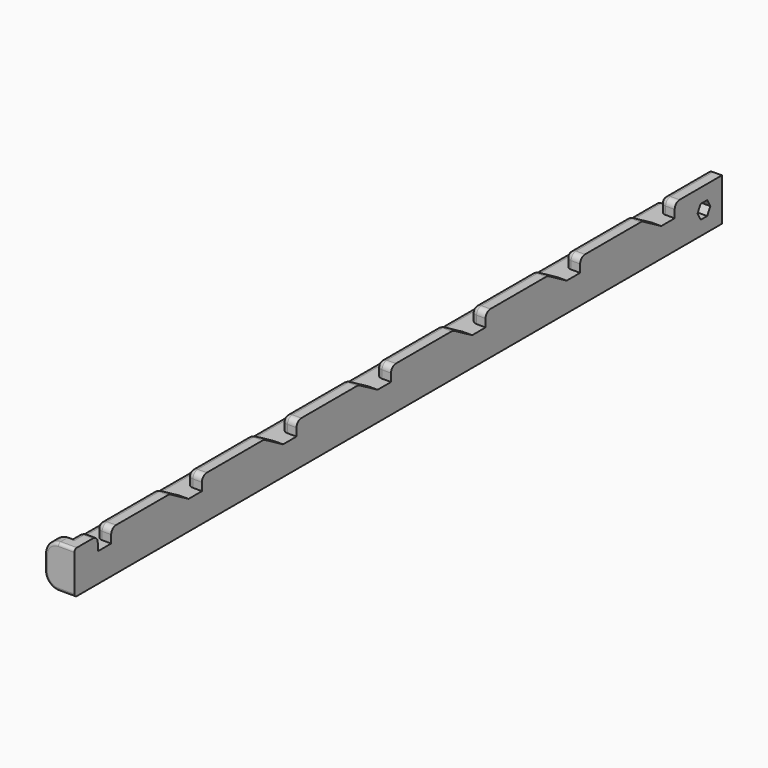
from build123d import *

# Parameters (mm, degrees)
SKETCH005_W          = 5
SKETCH005_H          = 14.2336
PAD003_DEPTH         = 270
PAD004_DEPTH         = 2.5
PAD005_DEPTH         = 4.7
POCKET004_DEPTH      = 2.501
POCKET004_DEPTH_BACK = 7.501
POCKET005_DEPTH      = 2.501
POCKET005_DEPTH_BACK = 7.501
LINEARPATTERN_COUNT  = 6
LINEARPATTERN_PITCH  = 39.428571
SKETCH015_W          = 5.6
SKETCH015_H          = 4.6168
POCKET006_DEPTH      = 2.501
POCKET006_DEPTH_BACK = 7.501
FILLET016_R          = 2
FILLET017_R          = 1


with BuildPart() as lefttelescopingbar:
    # Sketch005 → Pad003 (new body)
    with BuildSketch(Plane.XZ.offset(-40)):
        Rectangle(SKETCH005_W, SKETCH005_H)
    extrude(amount=PAD003_DEPTH)

    # Sketch006 → Pad004 (join, symmetric)
    with BuildSketch(Plane.XY):
        Polygon((2.5, -230), (7.5, -230), (7.5, 0), (7.5, 24.8), (2.5, 24.8), align=None)
    extrude(amount=PAD004_DEPTH, both=True)

    # Sketch007 (on Face5 of Pad004) → Pad005 (join)
    with BuildSketch(Plane.XZ.offset(230)):
        with BuildLine():
            Line((7.5, 2.5), (7.5, -2.5))
            ThreePointArc((2.883221, -7.1168), (6.147778, -5.764563), (7.5, -2.5))
            Line((2.5, -7.1168), (2.883221, -7.1168))
            Line((-2.5, -7.1168), (2.5, -7.1168))
            Line((-2.5, -7.1168), (-2.5, 7.1168))
            Line((-2.5, 7.1168), (2.5, 7.1168))
            Line((2.5, 7.1168), (2.8832, 7.1168))
            ThreePointArc((7.5, 2.5), (6.147771, 5.764571), (2.8832, 7.1168))
        make_face()
    extrude(amount=-PAD005_DEPTH)

    # Sketch012 → Pocket004 (cut, two sides)
    with BuildSketch(Plane.YZ) as pocket004_sk:
        Polygon((35.2, 0), (33.85, 2.338269), (31.15, 2.338269), (29.8, 0), (31.15, -2.338269), (33.85, -2.338269), align=None)
    extrude(amount=-POCKET004_DEPTH, mode=Mode.SUBTRACT)
    extrude(pocket004_sk.sketch, amount=POCKET004_DEPTH_BACK, mode=Mode.SUBTRACT)

    # Sketch013 → Pocket005 (cut, two sides)
    with BuildSketch(Plane.YZ) as pocket005_sk:
        Polygon((6.703468, 7.1168), (20.3, 7.1168), (20.3, 2.5), (14.7, 2.5), align=None)
    pocket005 = extrude(amount=-POCKET005_DEPTH, mode=Mode.SUBTRACT) + extrude(pocket005_sk.sketch, amount=POCKET005_DEPTH_BACK, mode=Mode.SUBTRACT)

    # LinearPattern: Pocket005 ×6
    with Locations(*[(0, -i * LINEARPATTERN_PITCH, 0) for i in range(1, LINEARPATTERN_COUNT)]):
        add(pocket005, mode=Mode.SUBTRACT)

    # Sketch015 → Pocket006 (cut, two sides)
    with BuildSketch(Plane.YZ) as pocket006_sk:
        with Locations((-217.5, 4.8084)):
            Rectangle(SKETCH015_W, SKETCH015_H)
    extrude(amount=-POCKET006_DEPTH, mode=Mode.SUBTRACT)
    extrude(pocket006_sk.sketch, amount=POCKET006_DEPTH_BACK, mode=Mode.SUBTRACT)

    # Fillet016
    fillet016_edges = [lefttelescopingbar.edges().sort_by_distance(p)[0] for p in [
        (2.5, -222.8, 7.1168),
        (0, -220.3, 7.1168),
        (0, -214.7, 7.1168),
        (2.5, -202.569695, 7.1168),
        (0, -190.439389, 7.1168),
        (2.5, -186.441123, 4.8084),
        (0, -176.842857, 7.1168),
        (2.5, -163.926838, 7.1168),
        (0, -151.010818, 7.1168),
        (2.5, -220.3, 4.8084),
        (2.5, -214.7, 4.8084),
        (2.5, -176.842857, 4.8084),
        (2.5, -147.012552, 4.8084),
        (2.5, -137.414286, 4.8084),
        (0, -137.414286, 7.1168),
        (2.5, -124.498266, 7.1168),
        (0, -111.582246, 7.1168),
        (2.5, -107.58398, 4.8084),
        (2.5, -97.985714, 4.8084),
        (0, -97.985714, 7.1168),
        (2.5, -85.069695, 7.1168),
        (2.5, -68.155409, 4.8084),
        (0, -72.153675, 7.1168),
        (2.5, -58.557143, 4.8084),
        (0, -58.557143, 7.1168),
        (2.5, -45.641123, 7.1168),
        (2.5, -28.726838, 4.8084),
        (0, -32.725104, 7.1168),
        (0, -19.128571, 7.1168),
        (2.5, -19.128571, 4.8084),
        (2.5, -6.212552, 7.1168),
        (2.5, 10.701734, 4.8084),
        (0, 6.703468, 7.1168),
        (0, 20.3, 7.1168),
        (2.5, 20.3, 4.8084),
        (2.5, 30.15, 7.1168),
        (2.5, -92.65, -7.1168),
        (7.5, -100.25, -2.5),
        (7.5, -100.25, 2.5),
    ]]
    fillet(fillet016_edges, radius=FILLET016_R)

    # Fillet017
    fillet017_edges = [lefttelescopingbar.edges().sort_by_distance(p)[0] for p in [
        (6.147771, -225.3, 5.764571),
        (6.147778, -225.3, -5.764563),
        (7.5, -230, 0),
    ]]
    fillet(fillet017_edges, radius=FILLET017_R)


with BuildPart() as lefttelescopingbar_1:
    # Body001 placement: moved
    add(lefttelescopingbar.part.moved(Location((28.4159, -10, 78.239))))


with BuildPart() as righttelescopingbar:
    # Part__Mirroring: instance of LeftTelescopingBar
    add(lefttelescopingbar_1.part.mirror(Plane(origin=(0, 0, 0), x_dir=(0, -1, 0), z_dir=(1, 0, 0))))


solid = righttelescopingbar.part
